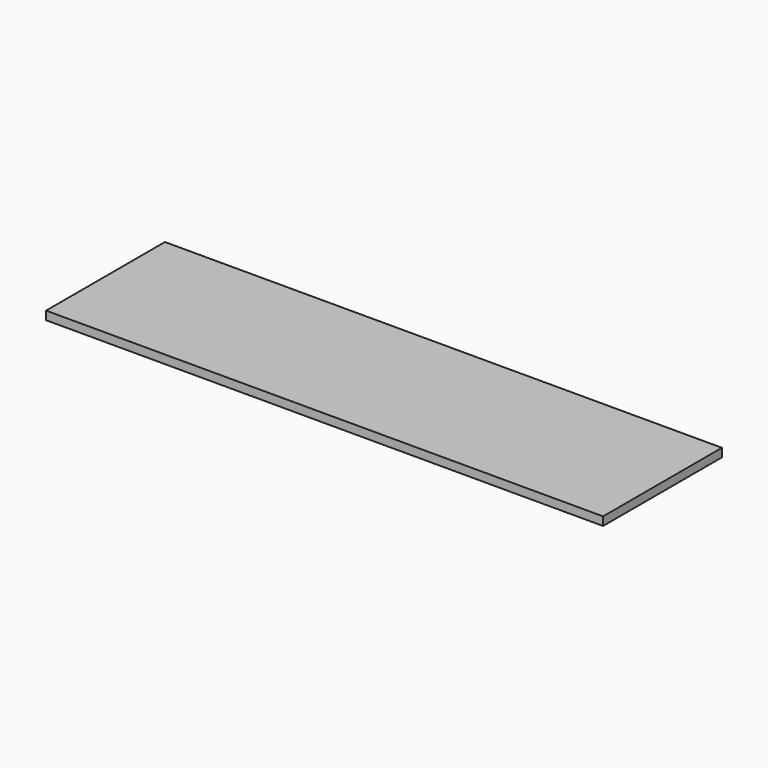
from build123d import *

# Parameters (mm, degrees)
F0_W     = 406.4
F0_H     = 23.219773
F1_DEPTH = 762


with BuildPart() as f1:
    # F0 (on Right) → F1 (new body)
    with BuildSketch(Plane.YZ):
        with Locations((203.2, -11.609886)):
            Rectangle(F0_W, F0_H)
    extrude(amount=-F1_DEPTH)

    # F2: F1 across plane


with BuildPart() as f1_1:
    add(f1.part)
    add(f1.part.mirror(Plane.YZ))


solid = f1_1.part
